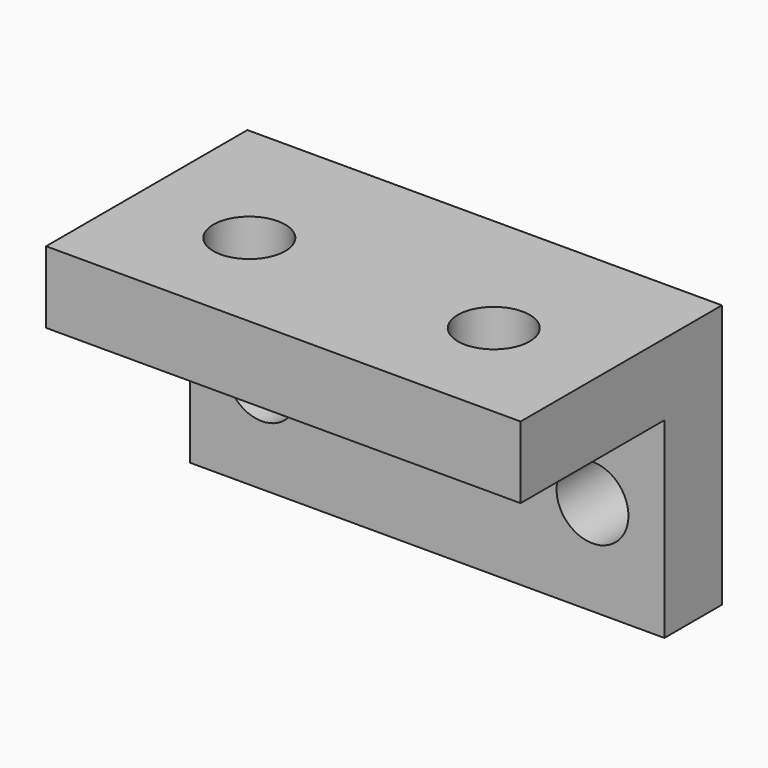
from build123d import *

# Parameters (mm, degrees)
SKETCH_W        = 19.8
SKETCH_H        = 14.5
SKETCH_R        = 1.5
PAD_DEPTH       = 3
SKETCH001_W     = 19.8
SKETCH001_H     = 3
PAD001_DEPTH    = 8
SKETCH002_R     = 1.5
POCKET_DEPTH    = 3.001
SKETCH003_W     = 4
SKETCH003_H     = 3
POCKET001_DEPTH = 19.801


with BuildPart() as part:
    # Sketch → Pad (new body)
    with BuildSketch(Plane.XY):
        with Locations((9.9, 7.25)):
            Rectangle(SKETCH_W, SKETCH_H)
        with Locations((4.8, 8.6)):
            Circle(SKETCH_R, mode=Mode.SUBTRACT)
        with Locations((15, 8.6)):
            Circle(SKETCH_R, mode=Mode.SUBTRACT)
    extrude(amount=PAD_DEPTH)

    # Sketch001 → Pad001 (new body)
    with BuildSketch(Plane(origin=(0, 0, 0), x_dir=(1, 0, 0), z_dir=(0, 0, -1))):
        with Locations((9.9, -13)):
            Rectangle(SKETCH001_W, SKETCH001_H)
    extrude(amount=PAD001_DEPTH)

    # Sketch002 → Pocket (cut, through all)
    with BuildSketch(Plane.XZ.offset(-11.5)):
        with Locations((3, -4)):
            Circle(SKETCH002_R)
        with Locations((16.8, -4)):
            Circle(SKETCH002_R)
    extrude(amount=-POCKET_DEPTH, mode=Mode.SUBTRACT)

    # Sketch003 → Pocket001 (cut, through all)
    with BuildSketch(Plane.YZ.offset(19.8)):
        with Locations((2, 1.5)):
            Rectangle(SKETCH003_W, SKETCH003_H)
    extrude(amount=-POCKET001_DEPTH, mode=Mode.SUBTRACT)


solid = part.part
